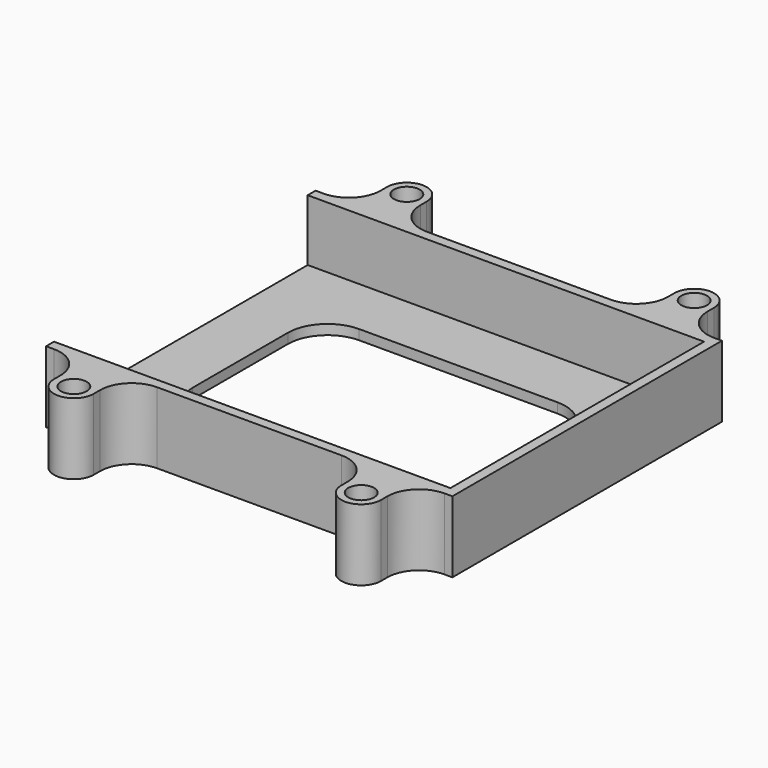
from build123d import *

# Parameters (mm, degrees)
F0_R     = 3.25
F3_DEPTH = 18
F2_W     = 100
F2_H     = 80
F4_DEPTH = 15.5
F5_DEPTH = 25
F6_R     = 8


with BuildPart() as f3:
    # F0 (on Top) → F3 (new body)
    with BuildSketch(Plane.XY):
        with BuildLine():
            Line((-50, 42.5), (-50, -42.5))
            Line((-50, -42.5), (-40, -42.5))
            Line((-40, -42.5), (-40, -52.5))
            ThreePointArc((-40, -52.5), (-35, -57.5), (-30, -52.5))
            Line((-30, -52.5), (-30, -42.5))
            Line((-30, -42.5), (32.5, -42.5))
            Line((32.5, -42.5), (32.5, -52.5))
            ThreePointArc((32.5, -52.5), (37.5, -57.5), (42.5, -52.5))
            Line((42.5, -52.5), (42.5, -42.5))
            Line((42.5, -42.5), (52.5, -42.5))
            Line((52.5, -42.5), (52.5, 42.5))
            Line((52.5, 42.5), (42.5, 42.5))
            Line((42.5, 42.5), (42.5, 52.5))
            ThreePointArc((42.5, 52.5), (37.5, 57.5), (32.5, 52.5))
            Line((32.5, 52.5), (32.5, 42.5))
            Line((32.5, 42.5), (-30, 42.5))
            Line((-30, 42.5), (-30, 52.5))
            ThreePointArc((-30, 52.5), (-35, 57.5), (-40, 52.5))
            Line((-40, 52.5), (-40, 42.5))
            Line((-40, 42.5), (-50, 42.5))
        make_face()
        with Locations((-35, -52.5)):
            Circle(F0_R, mode=Mode.SUBTRACT)
        with Locations((37.5, -52.5)):
            Circle(F0_R, mode=Mode.SUBTRACT)
        with Locations((-35, 52.5)):
            Circle(F0_R, mode=Mode.SUBTRACT)
        with Locations((37.5, 52.5)):
            Circle(F0_R, mode=Mode.SUBTRACT)
    extrude(amount=-F3_DEPTH)

    # F2 (on face) → F4 (cut)
    with BuildSketch(Plane.XY):
        Rectangle(F2_W, F2_H)
    extrude(amount=-F4_DEPTH, mode=Mode.SUBTRACT)

    # F1 (on Top) → F5 (cut)
    with BuildSketch(Plane.XY):
        with BuildLine():
            Line((25, 25), (-25, 25))
            ThreePointArc((-25, 25), (-32.071068, 22.071068), (-35, 15))
            Line((-35, 15), (-35, -15))
            ThreePointArc((-35, -15), (-32.071068, -22.071068), (-25, -25))
            Line((-25, -25), (25, -25))
            ThreePointArc((25, -25), (32.071068, -22.071068), (35, -15))
            Line((35, -15), (35, 15))
            ThreePointArc((35, 15), (32.071068, 22.071068), (25, 25))
        make_face()
    extrude(amount=-F5_DEPTH, mode=Mode.SUBTRACT)

    # F6
    f6_edges = [f3.edges().sort_by_distance(p)[0] for p in [
        (-40, 42.5, -9),
        (32.5, 42.5, -9),
        (-40, -42.5, -9),
        (32.5, -42.5, -9),
        (42.5, -42.5, -9),
        (-30, -42.5, -9),
        (42.5, 42.5, -9),
        (-30, 42.5, -9),
    ]]
    fillet(f6_edges, radius=F6_R)


solid = f3.part
